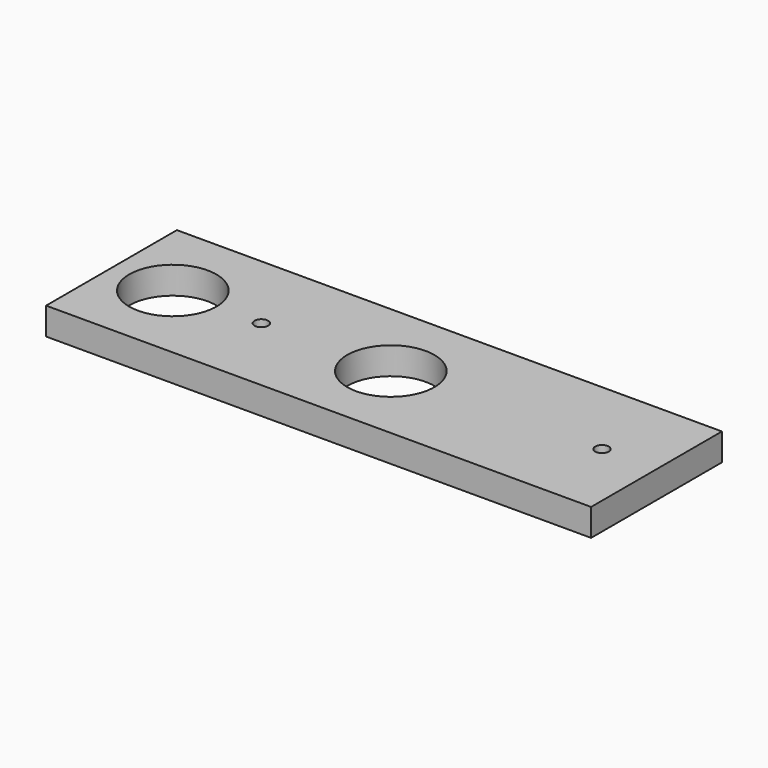
from build123d import *

# Parameters (mm, degrees)
F0_W     = 200
F0_H     = 60
F1_DEPTH = 10
F3_D     = 32
F5_D     = 5


with BuildPart() as f1:
    # F0 (on Top) → F1 (new body)
    with BuildSketch(Plane.XY):
        with Locations((100, 30)):
            Rectangle(F0_W, F0_H)
    extrude(amount=F1_DEPTH)

    # F3 (through all)
    with Locations(Plane.XY.offset(10)):
        with Locations((102.5, 30), (22.5, 30)):
            Hole(F3_D / 2)

    # F5 (through all)
    with Locations(Plane.XY.offset(10)):
        with Locations((55, 30), (180, 30)):
            Hole(F5_D / 2)


solid = f1.part
